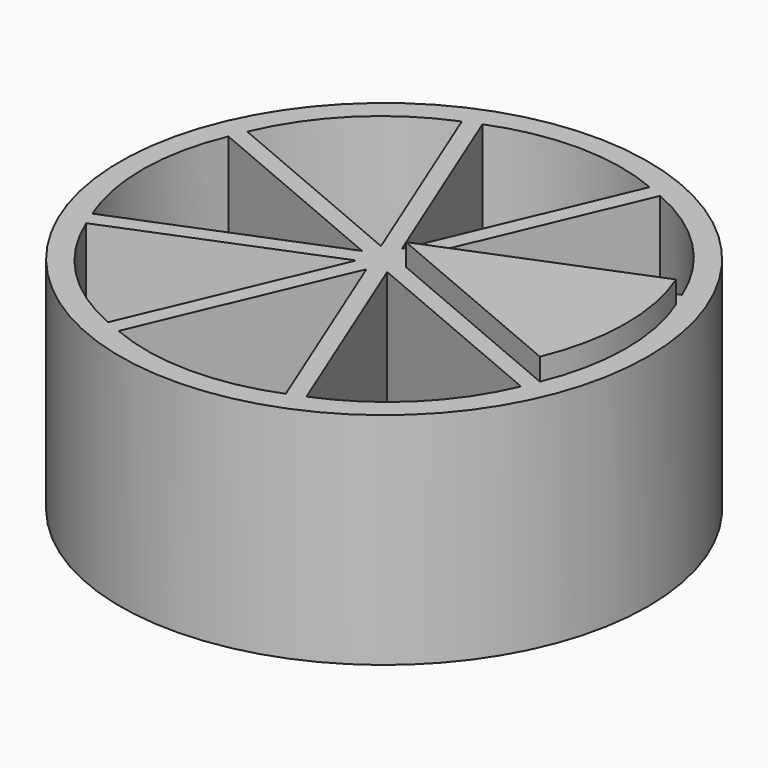
from build123d import *

# Parameters (mm, degrees)
CYLINDER001_W          = 10
CYLINDER001_H          = 10
CYLINDER001_ANGLE      = 315
CYLINDER_R             = 10
CYLINDER_DEPTH         = 10
CUT_PLACEMENT_ANGLE    = 22
ARRAY_COUNT            = 8
CYLINDER002_R          = 12
CYLINDER002_DEPTH      = 10
CYLINDER004_W          = 10
CYLINDER004_H          = 10
CYLINDER004_ANGLE      = 315
CYLINDER003_R          = 10
CYLINDER003_DEPTH      = 10
CUT002_PLACEMENT_ANGLE = 22


with BuildPart() as cilindre001:
    # Cylinder001 → Cylinder001 (revolve)
    with BuildSketch(Plane.XZ):
        with Locations((5, 5)):
            Rectangle(CYLINDER001_W, CYLINDER001_H)
    revolve(axis=Axis((0, 0, 0), (0, 0, 1)), revolution_arc=CYLINDER001_ANGLE)


with BuildPart() as array:
    # Cylinder → Cylinder (new body)
    with BuildSketch(Plane.XY):
        Circle(CYLINDER_R)
    extrude(amount=CYLINDER_DEPTH)

    # Cut: cut Cilindre001
    add(cilindre001.part, mode=Mode.SUBTRACT)


with BuildPart() as array_1:
    # Cut placement: moved
    add(array.part.moved(Location((1, 0, 0))).rotate(Axis((1, 0, 0), (0, 0, 1)), CUT_PLACEMENT_ANGLE))

    # Array: Array ×8 about axis
    array_axis = Axis((0, 0, 0), (0, 0, 1))


with BuildPart() as array_2:
    add(array_1.part)
    for i in range(1, ARRAY_COUNT):
        add(array_1.part.rotate(array_axis, i * 360 / ARRAY_COUNT))


with BuildPart() as array_3:
    # Array placement: moved
    add(array_2.part.moved(Location((0, 0, 2))))


with BuildPart() as cut001:
    # Cylinder002 → Cylinder002 (new body)
    with BuildSketch(Plane.XY):
        Circle(CYLINDER002_R)
    extrude(amount=CYLINDER002_DEPTH)

    # Cut001: cut Array
    add(array_3.part, mode=Mode.SUBTRACT)


with BuildPart() as cilindre004:
    # Cylinder004 → Cylinder004 (revolve)
    with BuildSketch(Plane.XZ):
        with Locations((5, 5)):
            Rectangle(CYLINDER004_W, CYLINDER004_H)
    revolve(axis=Axis((0, 0, 0), (0, 0, 1)), revolution_arc=CYLINDER004_ANGLE)


with BuildPart() as cut002:
    # Cylinder003 → Cylinder003 (new body)
    with BuildSketch(Plane.XY):
        Circle(CYLINDER003_R)
    extrude(amount=CYLINDER003_DEPTH)

    # Cut002: cut Cilindre004
    add(cilindre004.part, mode=Mode.SUBTRACT)


with BuildPart() as cut002_1:
    # Cut002 placement: moved
    add(cut002.part.moved(Location((1, 0, 1))).rotate(Axis((1, 0, 1), (0, 0, 1)), CUT002_PLACEMENT_ANGLE))


solid = Compound([cut001.part, cut002_1.part])
